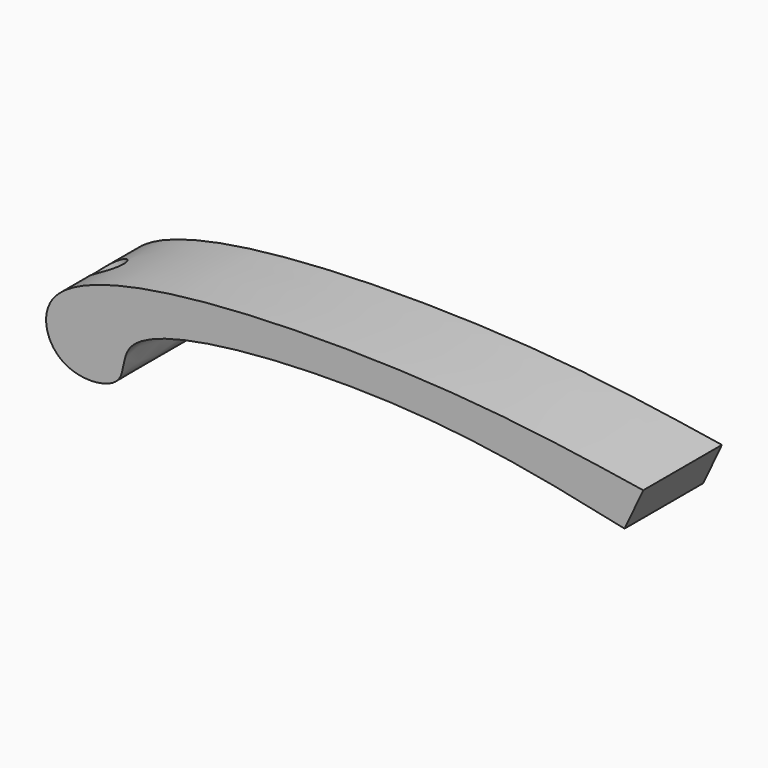
from build123d import *

# Parameters (mm, degrees)
F1_DEPTH = 25.4
F3_D     = 7.62
F3_DEPTH = 17.5056579383


with BuildPart() as f1:
    # F0 (on Front) → F1 (new body)
    with BuildSketch(Plane.XZ):
        with BuildLine():
            add(Edge.make_bspline(
                [(63.9709159732, 0), (44.6956851318, 4.1692120861), (6.2275065929, 12.4898385012), (-68.800263926, 6.6022250468), (-63.6022468034, -10.9942773594), (-83.4766825789, -12.8196232582), (-91.7154670476, 15.2809509165), (6.6781106949, 20.0435520202), (48.7865985417, 13.4320364184), (68.791911006, 10.2909728885)],
                knots=[0, 0, 0, 0, 0.1822118578, 0.3636458798, 0.433455617, 0.5180144228, 0.6032663284, 0.811515885, 1, 1, 1, 1], degree=3))
            Line((63.9709159732, 0), (68.791911006, 10.2909728885))
        make_face()
        with BuildLine():
            add(Edge.make_bspline(
                [(63.9709159732, 0), (44.6956851318, 4.1692120861), (6.2275065929, 12.4898385012), (-68.800263926, 6.6022250468), (-63.6022468034, -10.9942773594), (-83.4766825789, -12.8196232582), (-91.7154670476, 15.2809509165), (6.6781106949, 20.0435520202), (48.7865985417, 13.4320364184), (68.791911006, 10.2909728885)],
                knots=[0, 0, 0, 0, 0.1822118578, 0.3636458798, 0.433455617, 0.5180144228, 0.6032663284, 0.811515885, 1, 1, 1, 1], degree=3))
            Line((63.9709159732, 0), (68.791911006, 10.2909728885))
        make_face()
    extrude(amount=F1_DEPTH)

    # F3 (through all, one way)
    with BuildSketch(Plane(origin=(0, 0, 0), x_dir=(1, 0, 0), z_dir=(0, 0, -1))):
        with Locations((-78.7882432342, 13.4431635961)):
            Circle(F3_D / 2)
    extrude(amount=-F3_DEPTH, mode=Mode.SUBTRACT)


solid = f1.part
